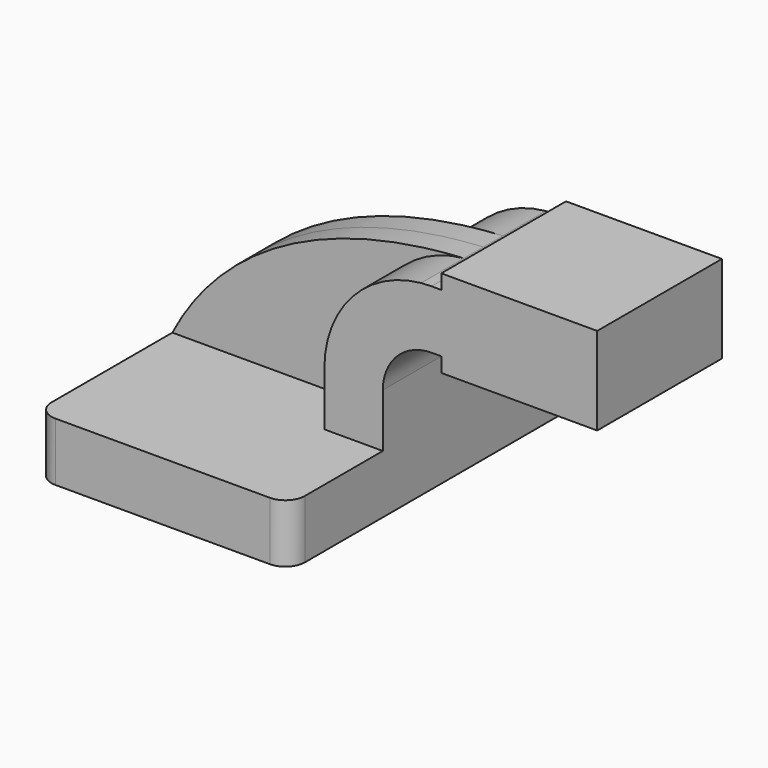
from build123d import *

# Parameters (mm, degrees)
F1_DEPTH = 63.5
F0_W     = 25.4
F0_H     = 28.575
F2_DEPTH = 25.4
F3_DEPTH = 7.9375
F5_R     = 6.35


with BuildPart() as f1:
    # F0 (on Front) → F1 (new body, symmetric)
    with BuildSketch(Plane.XZ):
        Polygon((22.225, 9.525), (-41.275, 9.525), (-41.275, -9.525), (41.275, -9.525), (41.275, 9.525), align=None)
    extrude(amount=F1_DEPTH, both=True)

    # F0 (on Front) → F2 (join, symmetric)
    with BuildSketch(Plane.XZ):
        with BuildLine():
            Line((22.225, 27.0002), (22.225, 9.525))
            Line((22.225, 9.525), (41.275, 9.525))
            Line((41.275, 9.525), (41.275, 27.0002))
            ThreePointArc((41.275, 27.0002), (45.92468, 38.22552), (57.15, 42.8752))
            Line((57.15, 42.8752), (60.325, 42.8752))
            Line((60.325, 42.8752), (60.325, 55.5752))
            Line((60.325, 55.5752), (60.325, 61.9252))
            Line((60.325, 61.9252), (57.15, 61.9252))
            add(Edge.make_bspline(
                [(53.755209, 61.759818), (54.878671, 61.824514), (56.010282, 61.879666), (57.15, 61.9252)],
                knots=[108.887606, 108.887606, 108.887606, 108.887606, 111.504536, 111.504536, 111.504536, 111.504536], degree=3))
            ThreePointArc((53.755209, 61.759818), (31.281885, 50.464988), (22.225, 27.0002))
        make_face()
        Polygon((60.325, 66.675), (60.325, 61.9252), (60.325, 55.5752), (60.325, 42.8752), (60.325, 38.1), (85.725, 38.1), (85.725, 66.675), align=None)
        with Locations((98.425, 52.3875)):
            Rectangle(F0_W, F0_H)
    extrude(amount=F2_DEPTH, both=True)

    # F0 (on Front) → F3 (join, symmetric)
    with BuildSketch(Plane.XZ):
        with BuildLine():
            add(Edge.make_bspline(
                [(-41.275, 9.525), (-25.63058, 39.853167), (7.009152, 59.067885), (53.755209, 61.759818)],
                knots=[0, 0, 0, 0, 108.887606, 108.887606, 108.887606, 108.887606], degree=3))
            Line((-41.275, 9.525), (22.225, 9.525))
            Line((22.225, 9.525), (22.225, 27.0002))
            ThreePointArc((22.225, 27.0002), (31.281885, 50.464988), (53.755209, 61.759818))
        make_face()
    extrude(amount=F3_DEPTH, both=True)

    # F0 (on Front) → F4 (revolve)
    with BuildSketch(Plane.XZ):
        with Locations((98.425, 52.3875)):
            Rectangle(F0_W, F0_H)
    revolve(axis=Axis((85.725, 0, 52.3875), (0, 0, -1)))

    # F5
    f5_edges = [f1.edges().sort_by_distance(p)[0] for p in [
        (41.275, -63.5, 0),
        (41.275, 63.5, 0),
        (-41.275, -63.5, 0),
        (-41.275, 63.5, 0),
    ]]
    fillet(f5_edges, radius=F5_R)


solid = f1.part
